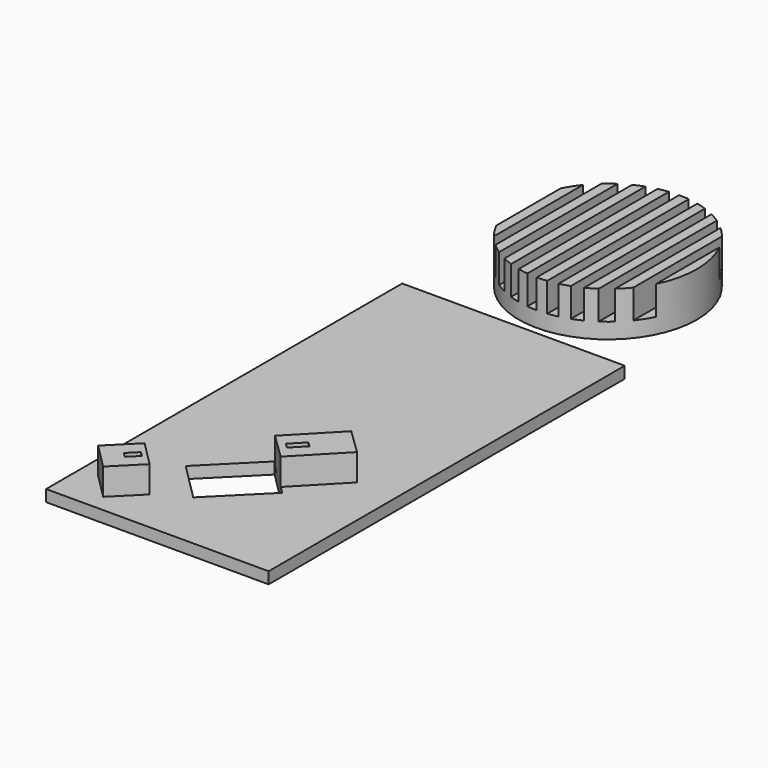
from build123d import *

# Parameters (mm, degrees)
SKETCH006_AS_DRAWN_W                      = 1.464365
SKETCH006_AS_DRAWN_H                      = 3.015419
EXTRUDE003_DEPTH                          = 4.5
EXTRUDE003_DEPTH_BACK                     = 2
EXTRUDE003_ONTO_SKETCH006_PLACEMENT_ANGLE = 135
BOX003_W                                  = 8
BOX003_H                                  = 8.2
BOX003_DEPTH                              = 6
BOX003_PLACEMENT_ANGLE                    = 135
BOX005_W                                  = 15.7
BOX005_H                                  = 12
BOX005_DEPTH                              = 2.6
BOX005_PLACEMENT_ANGLE                    = 45
BOX_W                                     = 50
BOX_H                                     = 100
BOX_DEPTH                                 = 2.6
SKETCH005_AS_DRAWN_W                      = 1.499127
SKETCH005_AS_DRAWN_H                      = 3.983619
EXTRUDE002_DEPTH                          = 4.5
EXTRUDE002_DEPTH_BACK                     = 1
EXTRUDE002_ONTO_SKETCH005_PLACEMENT_ANGLE = 136
BOX004_W                                  = 8
BOX004_H                                  = 13.5
BOX004_DEPTH                              = 6
BOX004_PLACEMENT_ANGLE                    = 136
SKETCH002_R                               = 2.35
EXTRUDE001_DEPTH                          = 6
SKETCH001_W                               = 2.23349
SKETCH001_H                               = 39.923653
SKETCH001_W_2                             = 2.233494
SKETCH001_H_2                             = 40.016715
SKETCH001_W_3                             = 2.204327
SKETCH001_H_3                             = 40.844541
SKETCH001_W_4                             = 2.233492
SKETCH001_H_4                             = 40.109777
SKETCH001_W_5                             = 2.233491
EXTRUDE_DEPTH                             = 6.5
CYLINDER001_R                             = 20
CYLINDER001_DEPTH                         = 10
CUT001_PLACEMENT_ANGLE                    = 180


with BuildPart() as extrude003:
    # Sketch006 as drawn → Extrude003 (new, two sides)
    with BuildSketch(Plane.XY) as extrude003_sk:
        with Locations((3.985229, 2.511082)):
            Rectangle(SKETCH006_AS_DRAWN_W, SKETCH006_AS_DRAWN_H)
    extrude(amount=EXTRUDE003_DEPTH)
    extrude(extrude003_sk.sketch, amount=-EXTRUDE003_DEPTH_BACK)


with BuildPart() as extrude003_1:
    # Extrude003 onto Sketch006 placement: moved
    add(extrude003.part.moved(Location((15.55, 9.66, 14.79))).rotate(Axis((15.55, 9.66, 14.79), (0, 0, 1)), EXTRUDE003_ONTO_SKETCH006_PLACEMENT_ANGLE))


with BuildPart() as extrude003_2:
    # Extrude003 placement: moved
    add(extrude003_1.part.moved(Location((0, 0, -4.5))))


with BuildPart() as cut004:
    # Box003 → Box003 (new body)
    with BuildSketch(Plane.XY):
        with Locations((4, 4.1)):
            Rectangle(BOX003_W, BOX003_H)
    extrude(amount=BOX003_DEPTH)


with BuildPart() as cut004_1:
    # Box003 placement: moved
    add(cut004.part.moved(Location((15.55, 9.66, 8.79))).rotate(Axis((15.55, 9.66, 8.79), (0, 0, 1)), BOX003_PLACEMENT_ANGLE))

    # Cut004: cut Extrude003
    add(extrude003_2.part, mode=Mode.SUBTRACT)


with BuildPart() as cut004_2:
    # Cut004 placement: moved
    add(cut004_1.part.moved(Location((-0.08085, 0.07824, -6.2))))


with BuildPart() as cube005:
    # Box005 → Box005 (new body)
    with BuildSketch(Plane.XY):
        with Locations((7.85, 6)):
            Rectangle(BOX005_W, BOX005_H)
    extrude(amount=BOX005_DEPTH)


with BuildPart() as cube005_1:
    # Box005 placement: moved
    add(cube005.part.moved(Location((22.146447, 13.646447, 0))).rotate(Axis((22.146447, 13.646447, 0), (0, 0, 1)), BOX005_PLACEMENT_ANGLE))


with BuildPart() as cut:
    # Box → Box (new body)
    with BuildSketch(Plane.XY):
        with Locations((25, 50)):
            Rectangle(BOX_W, BOX_H)
    extrude(amount=BOX_DEPTH)

    # Cut: cut Cube005
    add(cube005_1.part, mode=Mode.SUBTRACT)


with BuildPart() as extrude002:
    # Sketch005 as drawn → Extrude002 (new, two sides)
    with BuildSketch(Plane.XY) as extrude002_sk:
        with Locations((4.002213, 9.994158)):
            Rectangle(SKETCH005_AS_DRAWN_W, SKETCH005_AS_DRAWN_H)
    extrude(amount=EXTRUDE002_DEPTH)
    extrude(extrude002_sk.sketch, amount=-EXTRUDE002_DEPTH_BACK)


with BuildPart() as extrude002_1:
    # Extrude002 onto Sketch005 placement: moved
    add(extrude002.part.moved(Location((47.02, 42.01, 14.32))).rotate(Axis((47.02, 42.01, 14.32), (0, 0, 1)), EXTRUDE002_ONTO_SKETCH005_PLACEMENT_ANGLE))


with BuildPart() as extrude002_2:
    # Extrude002 placement: moved
    add(extrude002_1.part.moved(Location((0, 0, -4.5))))


with BuildPart() as fusion:
    # Box004 → Box004 (new body)
    with BuildSketch(Plane.XY):
        with Locations((4, 6.75)):
            Rectangle(BOX004_W, BOX004_H)
    extrude(amount=BOX004_DEPTH)


with BuildPart() as fusion_1:
    # Box004 placement: moved
    add(fusion.part.moved(Location((47.02, 42.01, 8.32))).rotate(Axis((47.02, 42.01, 8.32), (0, 0, 1)), BOX004_PLACEMENT_ANGLE))

    # Cut003: cut Extrude002
    add(extrude002_2.part, mode=Mode.SUBTRACT)


with BuildPart() as fusion_2:
    # Cut003 placement: moved
    add(fusion_1.part.moved(Location((-5.96, -6, -5.7))))

    # Fusion: union Cut004, Cut
    add(cut004_2.part)
    add(cut.part)


with BuildPart() as extrude001:
    # Sketch002 → Extrude001 (new body)
    with BuildSketch(Plane.XY):
        with Locations((25.84182, 74.524612)):
            Circle(SKETCH002_R)
    extrude(amount=EXTRUDE001_DEPTH)


with BuildPart() as extrude001_1:
    # Extrude001 placement: moved
    add(extrude001.part.moved(Location((0, 0, -2.75))))


with BuildPart() as extrude_body:
    # Sketch001 (on Cylinder) → Extrude (new body)
    with BuildSketch(Plane(origin=(25.88, -24.43, 1.58), x_dir=(1, 0, 0), z_dir=(0, 0, 1))):
        with Locations((3.379402, 0.007826)):
            Rectangle(SKETCH001_W, SKETCH001_H)
        with Locations((7.846387, 0.007826)):
            Rectangle(SKETCH001_W_2, SKETCH001_H)
        with Locations((12.313369, 0.054358)):
            Rectangle(SKETCH001_W, SKETCH001_H_2)
        with Locations((16.780351, 0.054358)):
            Rectangle(SKETCH001_W_2, SKETCH001_H_2)
        with Locations((-1.102163, -0.266493)):
            Rectangle(SKETCH001_W_3, SKETCH001_H_3)
        with Locations((-5.554563, 0.100888)):
            Rectangle(SKETCH001_W_4, SKETCH001_H_4)
        with Locations((-10.021547, 0.054358)):
            Rectangle(SKETCH001_W_4, SKETCH001_H_2)
        with Locations((-14.48853, 0.054358)):
            Rectangle(SKETCH001_W_4, SKETCH001_H_2)
        with Locations((-18.955512, 0.100888)):
            Rectangle(SKETCH001_W_5, SKETCH001_H_4)
    extrude(amount=EXTRUDE_DEPTH)


with BuildPart() as cut005:
    # Cylinder001 → Cylinder001 (new body)
    with BuildSketch(Plane(origin=(25.88, -24.43, 1.58), x_dir=(1, 0, 0), z_dir=(0, 0, 1))):
        Circle(CYLINDER001_R)
    extrude(amount=CYLINDER001_DEPTH)

    # Cut001: cut Extrude body
    add(extrude_body.part, mode=Mode.SUBTRACT)


with BuildPart() as cut005_1:
    # Cut001 placement: moved
    add(cut005.part.moved(Location((0, 50, 12))).rotate(Axis((0, 50, 12), (1, 0, 0)), CUT001_PLACEMENT_ANGLE))

    # Cut005: cut Extrude001
    add(extrude001_1.part, mode=Mode.SUBTRACT)


with BuildPart() as cut005_2:
    # Cut005 placement: moved
    add(cut005_1.part.moved(Location((0, 51, -0.4))))


solid = Compound([fusion_2.part, cut005_2.part])
